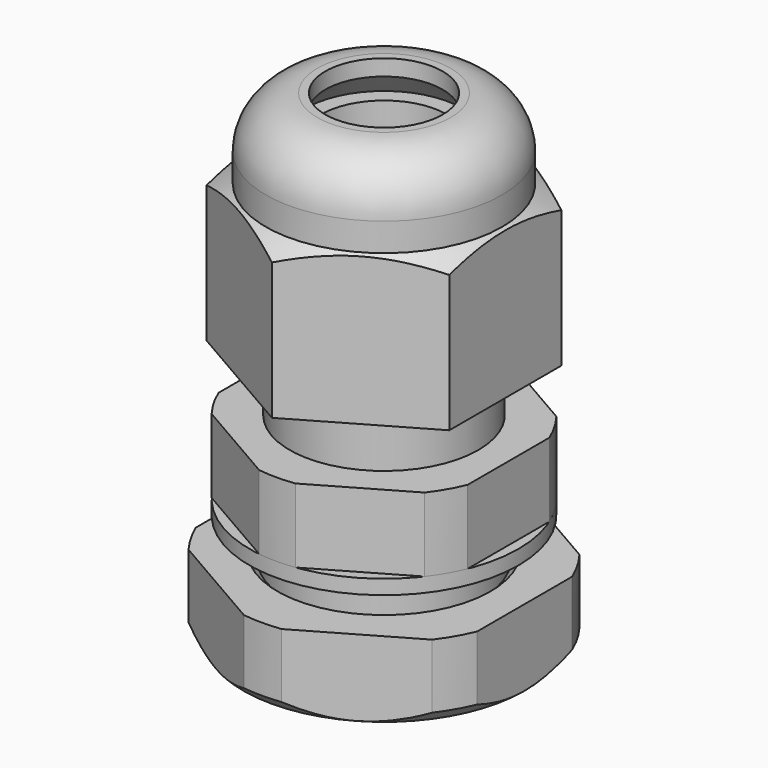
from build123d import *

# Parameters (mm, degrees)
SKETCH001_R     = 14
POCKET_DEPTH    = 13.801
SKETCH003_R     = 14
POCKET001_DEPTH = 14.251
SKETCH005_R     = 15.040905
POCKET002_DEPTH = 4.751
CHAMFER_SIZE    = 0.5
SKETCH006_R     = 8.375
SKETCH006_R_2   = 6.15
PAD_DEPTH       = 0.9


with BuildPart() as body:
    # Sketch → Revolution (revolve)
    with BuildSketch(Plane.XZ):
        Polygon((3.915, -9.2), (3.915, 19.8), (4.915, 19.8), (5.87, 13.8), (5.87, 4.6), (8.375, 4.6), (8.375, 0), (6.15, 0), (6.15, -8.2), (5.15, -9.2), align=None)
    revolve(axis=Axis((0, 0, 0), (0, 0, 1)))

    # Sketch001 (on Face2 of Revolution) → Pocket (cut, through all)
    with BuildSketch(Plane(origin=(0, 0, 4.6), x_dir=(-1, 0, 0), z_dir=(0, 0, 1))):
        Circle(SKETCH001_R)
        Polygon((0, 8.948929), (-7.75, 4.474465), (-7.75, -4.474465), (0, -8.948929), (7.75, -4.474465), (7.75, 4.474465), align=None, mode=Mode.SUBTRACT)
    extrude(amount=-POCKET_DEPTH, mode=Mode.SUBTRACT)


with BuildPart() as body001:
    # Sketch002 → Revolution001 (revolve)
    with BuildSketch(Plane.XZ):
        with BuildLine():
            Line((5.9, 6), (10.22, 6))
            Line((10.22, 6), (10.22, 13.643005))
            Line((10.22, 13.643005), (7.35, 15.3))
            Line((7.35, 15.3), (7.35, 17.05))
            ThreePointArc((7.35, 17.05), (6.412742, 19.312742), (4.15, 20.25))
            Line((3.65, 20.25), (4.15, 20.25))
            Line((3.65, 19.25), (3.65, 20.25))
            Line((5.9, 17), (3.65, 19.25))
            Line((5.9, 6), (5.9, 17))
        make_face()
    revolve(axis=Axis((0, 0, 0), (0, 0, 1)))

    # Sketch003 (on Face1 of Revolution001) → Pocket001 (cut, through all)
    with BuildSketch(Plane(origin=(0, 0, 6), x_dir=(1, 0, 0), z_dir=(0, 0, -1))):
        Circle(SKETCH003_R)
        Polygon((0, 8.717989), (-7.55, 4.358995), (-7.55, -4.358995), (0, -8.717989), (7.55, -4.358995), (7.55, 4.358995), align=None, mode=Mode.SUBTRACT)
    extrude(amount=-POCKET001_DEPTH, mode=Mode.SUBTRACT)


with BuildPart() as body001_1:
    # Body001 placement: moved
    add(body001.part.moved(Location((0, 0, 2))))


with BuildPart() as body002:
    # Sketch004 → Revolution002 (revolve)
    with BuildSketch(Plane.YZ):
        Polygon((6.125, 0), (6.125, -4.75), (8.75, -4.75), (9.5, -4), (9.5, 0), align=None)
    revolve(axis=Axis((0, 0, 0), (0, 0, 1)))

    # Sketch005 (on Face2 of Revolution002) → Pocket002 (cut, through all)
    with BuildSketch(Plane.YX.offset(4.75)):
        Circle(SKETCH005_R)
        Polygon((10.10363, 0), (5.051815, 8.75), (-5.051815, 8.75), (-10.10363, 0), (-5.051815, -8.75), (5.051815, -8.75), align=None, mode=Mode.SUBTRACT)
    extrude(amount=-POCKET002_DEPTH, mode=Mode.SUBTRACT)

    # Chamfer
    chamfer_edges = [body002.edges().sort_by_distance(p)[0] for p in [
        (0, -6.125, -4.75),
        (0, -6.125, 0),
    ]]
    chamfer(chamfer_edges, length=CHAMFER_SIZE)


with BuildPart() as body002_1:
    # Body002 placement: moved
    add(body002.part.moved(Location((0, 0, -2.9))))


with BuildPart() as body003:
    # Sketch006 → Pad (new body)
    with BuildSketch(Plane.XY):
        Circle(SKETCH006_R)
        Circle(SKETCH006_R_2, mode=Mode.SUBTRACT)
    extrude(amount=-PAD_DEPTH)


solid = Compound([body.part, body001_1.part, body002_1.part, body003.part])
